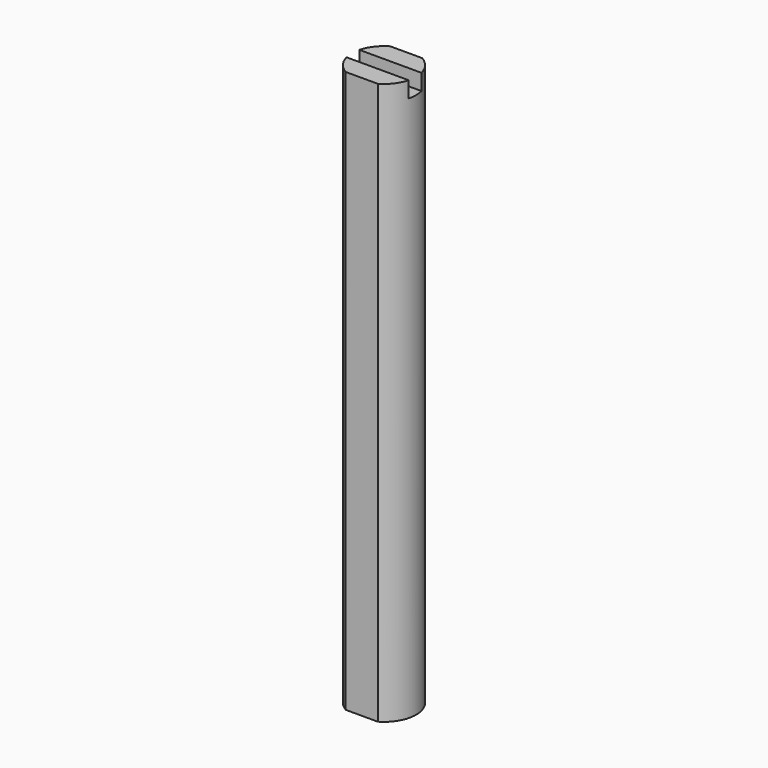
from build123d import *

# Parameters (mm, degrees)
F1_DEPTH = 35
F2_W     = 10
F2_H     = 1
F3_DEPTH = 1


with BuildPart() as f1:
    # F0 (on Top) → F1 (new body)
    with BuildSketch(Plane.XY):
        with BuildLine():
            Line((-1, -1.732051), (1, -1.732051))
            ThreePointArc((1, -1.732051), (2, 0), (1, 1.732051))
            Line((1, 1.732051), (-1, 1.732051))
            ThreePointArc((-1, 1.732051), (-2, 0), (-1, -1.732051))
        make_face()
    extrude(amount=F1_DEPTH)

    # F2 (on face) → F3 (cut)
    with BuildSketch(Plane.XY.offset(35)):
        Rectangle(F2_W, F2_H)
    extrude(amount=-F3_DEPTH, mode=Mode.SUBTRACT)


solid = f1.part
